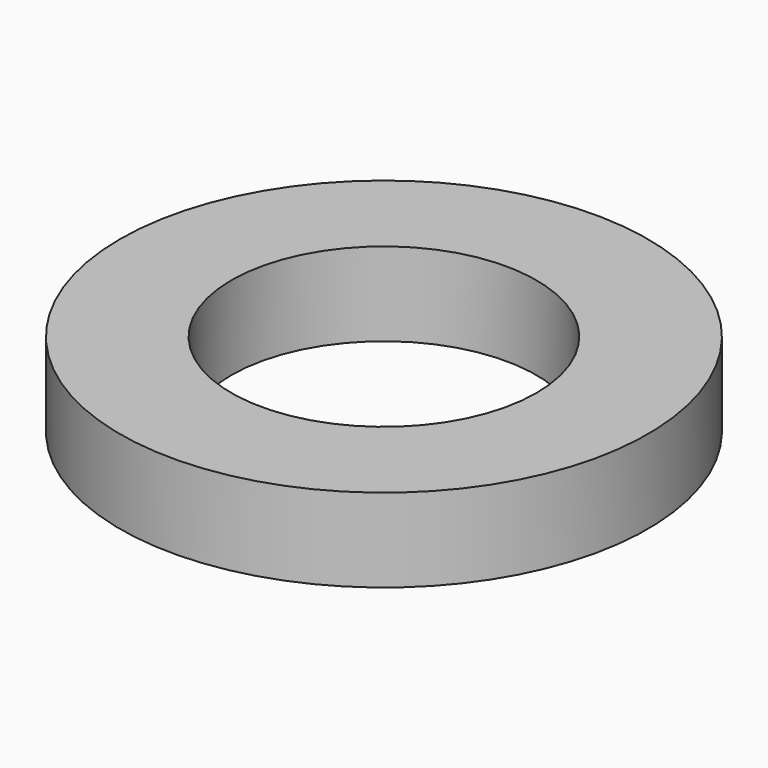
from build123d import *

# Parameters (mm, degrees)
F0_W = 40
F0_H = 30


with BuildPart() as f2:
    # F0 (on Front) → F2 (revolve)
    with BuildSketch(Plane.XZ):
        Rectangle(F0_W, F0_H)
    revolve(axis=Axis((74.809104, 0, -2.989646), (0, 0, -1)))


solid = f2.part
